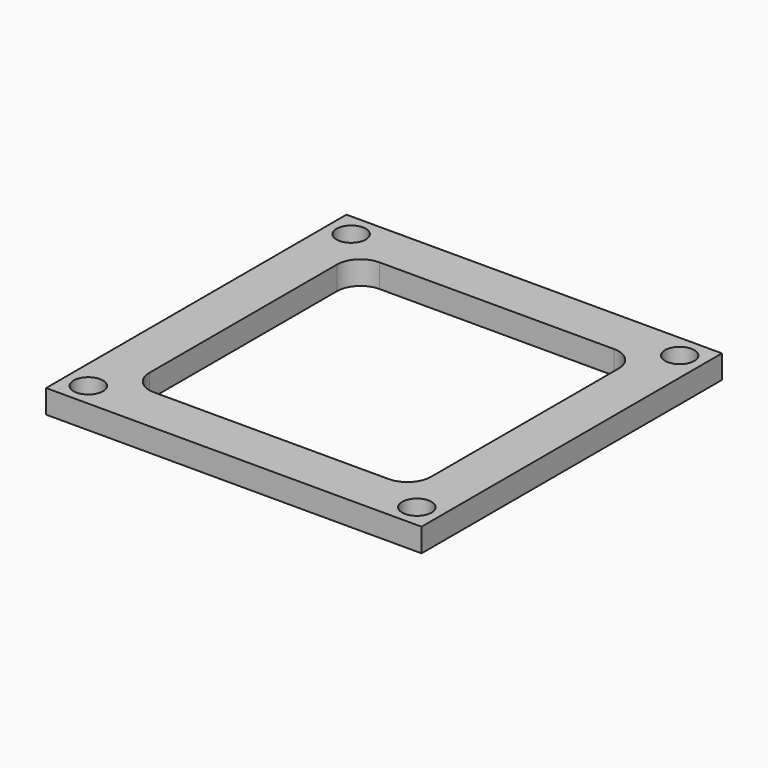
from build123d import *

# Parameters (mm, degrees)
F0_W     = 101.6
F0_H     = 101.6
F0_R     = 3.96875
F1_DEPTH = 6.35


with BuildPart() as f1:
    # F0 (on Top) → F1 (new body)
    with BuildSketch(Plane.XY):
        with Locations((50.8, 50.8)):
            Rectangle(F0_W, F0_H)
        with Locations((6.35, 6.35)):
            Circle(F0_R, mode=Mode.SUBTRACT)
        with Locations((95.25, 6.35)):
            Circle(F0_R, mode=Mode.SUBTRACT)
        with Locations((6.35, 95.25)):
            Circle(F0_R, mode=Mode.SUBTRACT)
        with BuildLine():
            Line((82.55, 12.7), (19.05, 12.7))
            ThreePointArc((19.05, 12.7), (14.559872, 14.559872), (12.7, 19.05))
            Line((12.7, 19.05), (12.7, 82.55))
            ThreePointArc((12.7, 82.55), (14.559872, 87.040128), (19.05, 88.9))
            Line((19.05, 88.9), (82.55, 88.9))
            ThreePointArc((82.55, 88.9), (87.040128, 87.040128), (88.9, 82.55))
            Line((88.9, 82.55), (88.9, 19.05))
            ThreePointArc((88.9, 19.05), (87.040128, 14.559872), (82.55, 12.7))
        make_face(mode=Mode.SUBTRACT)
        with Locations((95.25, 95.25)):
            Circle(F0_R, mode=Mode.SUBTRACT)
    extrude(amount=F1_DEPTH)


solid = f1.part
